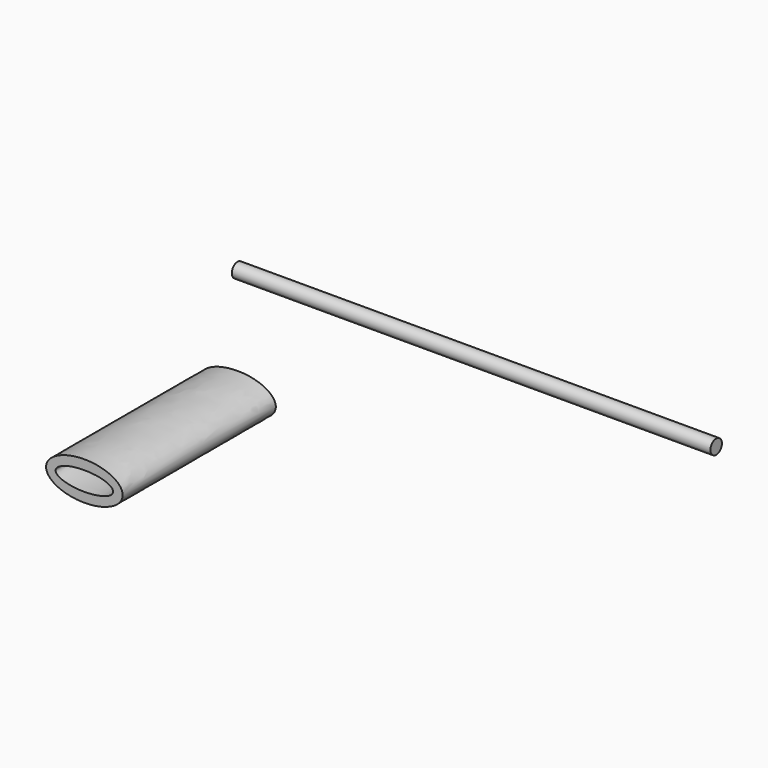
from build123d import *

# Parameters (mm, degrees)
F1_R     = 0.75
F4_DEPTH = 20


with BuildPart() as f2:
    # F2: sweep along a path in F0
    with BuildLine(Plane.XZ) as f2_path:
        Line((0, 0), (50, 0))
    # F1 (on Right) → F2 (sweep)
    with BuildSketch(Plane.YZ):
        Circle(F1_R)
    sweep(path=f2_path.line)


with BuildPart() as f4:
    # F3 (on Front) → F4 (new body)
    with BuildSketch(Plane.XZ):
        with BuildLine():
            add(Edge.make_bspline(
                [(4, -11.285983), (4, -7.821882), (-2, -9.553932), (-8, -11.285983), (-2, -13.018034), (4, -14.750085), (4, -11.285983)],
                knots=[0, 0, 0, 2.094395, 2.094395, 4.18879, 4.18879, 6.283185, 6.283185, 6.283185], degree=2, weights=[1, 0.5, 1, 0.5, 1, 0.5, 1]))
        make_face()
        with BuildLine():
            add(Edge.make_bspline(
                [(3, -11.285983), (3, -9.553932), (-1.5, -10.419958), (-6, -11.285983), (-1.5, -12.152009), (3, -13.018034), (3, -11.285983)],
                knots=[0, 0, 0, 2.094395, 2.094395, 4.18879, 4.18879, 6.283185, 6.283185, 6.283185], degree=2, weights=[1, 0.5, 1, 0.5, 1, 0.5, 1]))
        make_face(mode=Mode.SUBTRACT)
    extrude(amount=F4_DEPTH)


solid = Compound([f2.part, f4.part])
